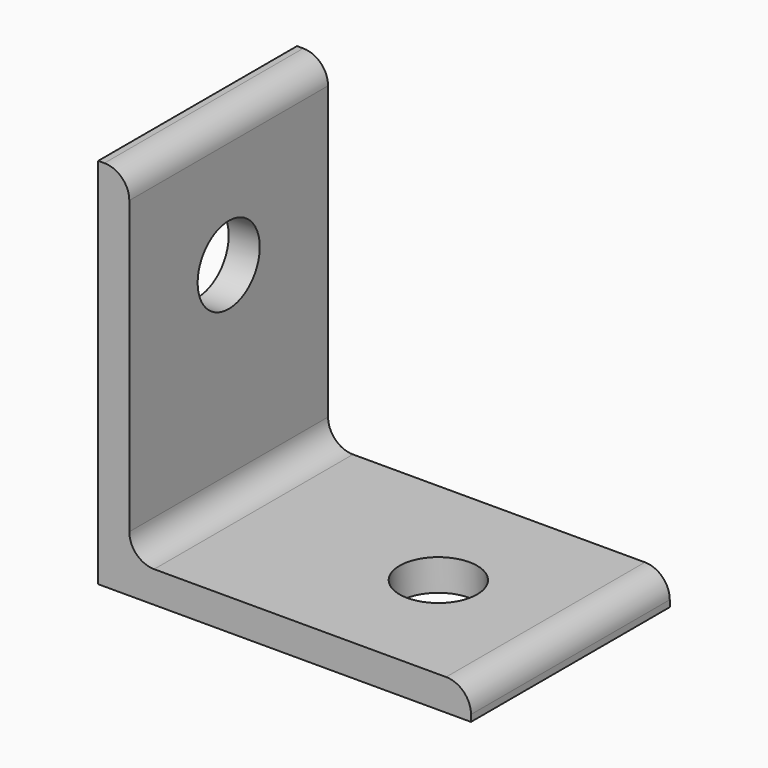
from build123d import *

# Parameters (mm, degrees)
F1_DEPTH = 25.4
F2_R     = 5.08
F3_R     = 7.9375
F4_DEPTH = 25.4
F5_R     = 7.9375
F6_DEPTH = 25.4


with BuildPart() as f1:
    # F0 (on Front) → F1 (new body, symmetric)
    with BuildSketch(Plane.XZ):
        Polygon((-38.1, -38.1), (38.1, -38.1), (38.1, -31.6738), (-31.75, -31.6738), (-31.75, 38.1), (-38.1, 38.1), align=None)
    extrude(amount=F1_DEPTH, both=True)

    # F2
    f2_edges = [f1.edges().sort_by_distance(p)[0] for p in [
        (-31.75, 0, 38.1),
        (-31.75, 0, -31.6738),
        (38.1, 0, -31.6738),
    ]]
    fillet(f2_edges, radius=F2_R)

    # F3 (on face) → F4 (cut)
    with BuildSketch(Plane(origin=(-38.1, 0, 0), x_dir=(0, -1, 0), z_dir=(-1, 0, 0))):
        with Locations((0, 11.1125)):
            Circle(F3_R)
    extrude(amount=-F4_DEPTH, mode=Mode.SUBTRACT)

    # F5 (on face) → F6 (cut)
    with BuildSketch(Plane(origin=(0, 0, -38.1), x_dir=(1, 0, 0), z_dir=(0, 0, -1))):
        with Locations((11.1125, 0)):
            Circle(F5_R)
    extrude(amount=-F6_DEPTH, mode=Mode.SUBTRACT)


solid = f1.part
